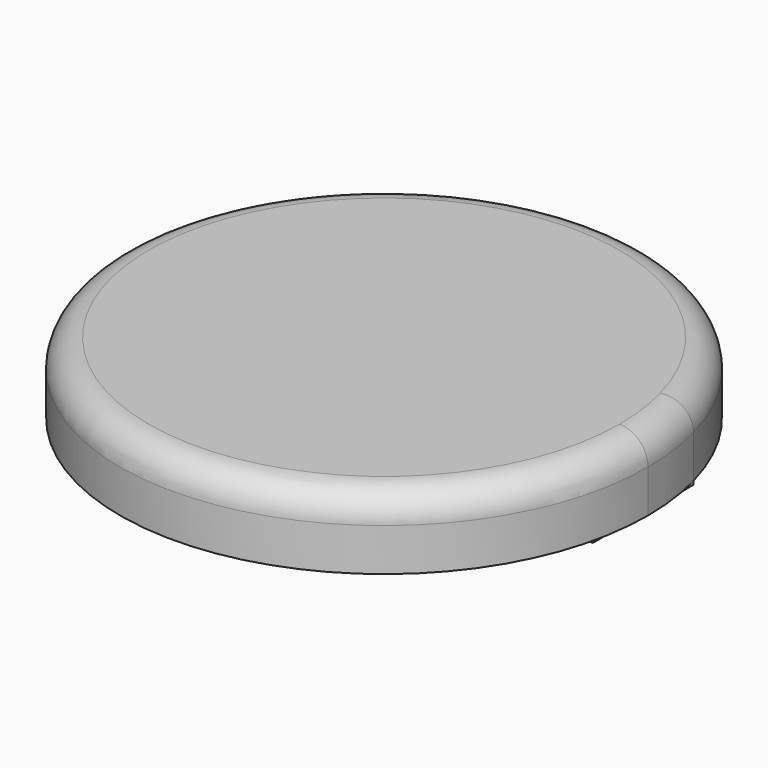
from build123d import *

# Parameters (mm, degrees)
F0_W     = 11.387274
F0_H     = 22.464488
F1_DEPTH = 12.7
F2_R     = 5.08
F3_DEPTH = 0.635


with BuildPart() as f1:
    # F0 (on Top) → F1 (new body)
    with BuildSketch(Plane.XY):
        with BuildLine():
            ThreePointArc((45.499377, 12.166495), (-46.696597, -6.135533), (47.09795, 0))
            ThreePointArc((47.09795, 0), (46.696597, 6.135533), (45.499377, 12.166495))
        make_face()
        with Locations((39.80574, 0.934251)):
            Rectangle(F0_W, F0_H, mode=Mode.SUBTRACT)
        with Locations((39.80574, 0.934251)):
            Rectangle(F0_W, F0_H)
    extrude(amount=F1_DEPTH)

    # F2
    f2_edges = [f1.edges().sort_by_distance(p)[0] for p in [
        (-47.09795, 0, 12.7),
    ]]
    fillet(f2_edges, radius=F2_R)

    # F0 (on Top) → F3 (join)
    with BuildSketch(Plane.XY):
        with Locations((39.80574, 0.934251)):
            Rectangle(F0_W, F0_H)
    extrude(amount=-F3_DEPTH)


solid = f1.part
